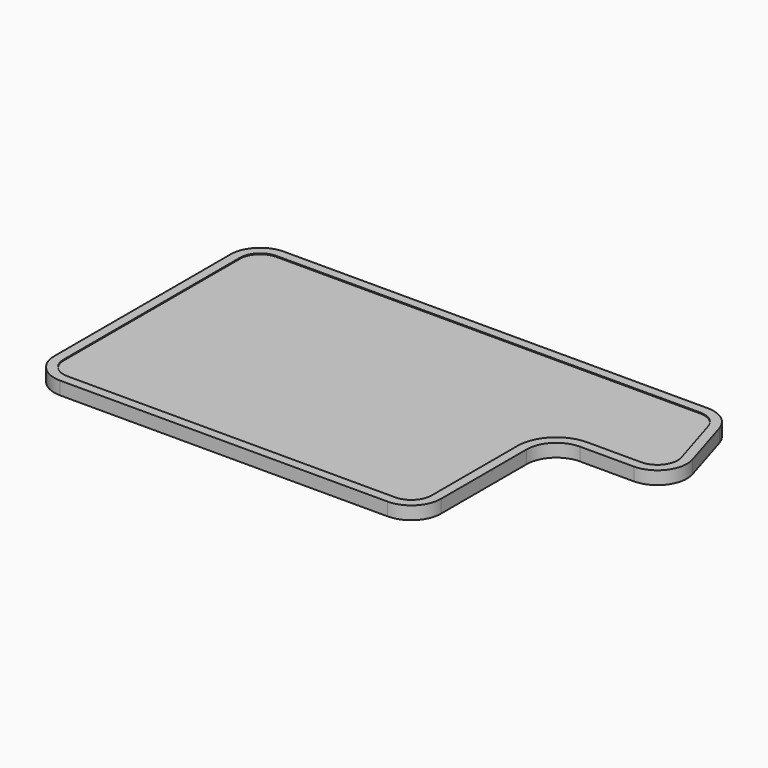
from build123d import *

# Parameters (mm, degrees)
F1_DEPTH = 2.8
F3_DEPTH = 0.2
F5_DEPTH = 0.2


with BuildPart() as f1:
    # F0 (on Top) → F1 (new body)
    with BuildSketch(Plane.XY):
        with BuildLine():
            ThreePointArc((-41.5, -23.65), (-39.640128, -28.140128), (-35.15, -30))
            Line((-35.15, -30), (35.15, -30))
            ThreePointArc((35.15, -30), (39.640128, -28.140128), (41.5, -23.65))
            Line((41.5, -23.65), (41.5, -0.635))
            ThreePointArc((41.5, -0.635), (43.359872, 3.855128), (47.85, 5.715))
            Line((47.85, 5.715), (59.405295, 5.715))
            ThreePointArc((59.405295, 5.715), (64.511092, 8.28964), (65.476545, 13.925759))
            Line((65.476545, 13.925759), (61.925894, 25.510759))
            ThreePointArc((61.925894, 25.510759), (59.630003, 28.755797), (55.854644, 30))
            Line((55.854644, 30), (41.5, 30))
            Line((41.5, 30), (-35.15, 30))
            ThreePointArc((-35.15, 30), (-39.640128, 28.140128), (-41.5, 23.65))
            Line((-41.5, 23.65), (-41.5, -23.65))
        make_face()
    extrude(amount=F1_DEPTH)

    # F2 (on face) → F3 (cut)
    with BuildSketch(Plane.XY.offset(2.8)):
        with BuildLine():
            ThreePointArc((39.5, -0.635), (41.945658, 5.269342), (47.85, 7.715))
            Line((47.85, 7.715), (59.405295, 7.715))
            ThreePointArc((59.405295, 7.715), (62.902967, 9.47873), (63.56434, 13.339693))
            Line((63.56434, 13.339693), (60.013689, 24.924693))
            ThreePointArc((60.013689, 24.924693), (58.440914, 27.147672), (55.854644, 28))
            Line((55.854644, 28), (-35.15, 28))
            ThreePointArc((-35.15, 28), (-38.225914, 26.725914), (-39.5, 23.65))
            Line((-39.5, 23.65), (-39.5, -23.65))
            ThreePointArc((-39.5, -23.65), (-38.225914, -26.725914), (-35.15, -28))
            Line((-35.15, -28), (35.15, -28))
            ThreePointArc((35.15, -28), (38.225914, -26.725914), (39.5, -23.65))
            Line((39.5, -23.65), (39.5, -0.635))
        make_face()
    extrude(amount=-F3_DEPTH, mode=Mode.SUBTRACT)

    # F4 (on face) → F5 (cut)
    with BuildSketch(Plane(origin=(0, 0, 0), x_dir=(1, 0, 0), z_dir=(0, 0, -1))):
        with BuildLine():
            ThreePointArc((-39.5, -23.65), (-38.225914, -26.725914), (-35.15, -28))
            Line((-35.15, -28), (55.854644, -28))
            ThreePointArc((55.854644, -28), (58.440914, -27.147672), (60.013689, -24.924693))
            Line((60.013689, -24.924693), (63.56434, -13.339693))
            ThreePointArc((63.56434, -13.339693), (62.902967, -9.47873), (59.405295, -7.715))
            Line((59.405295, -7.715), (47.85, -7.715))
            ThreePointArc((47.85, -7.715), (41.945658, -5.269342), (39.5, 0.635))
            Line((39.5, 0.635), (39.5, 23.65))
            ThreePointArc((39.5, 23.65), (38.225914, 26.725914), (35.15, 28))
            Line((35.15, 28), (-35.15, 28))
            ThreePointArc((-35.15, 28), (-38.225914, 26.725914), (-39.5, 23.65))
            Line((-39.5, 23.65), (-39.5, -23.65))
        make_face()
    extrude(amount=-F5_DEPTH, mode=Mode.SUBTRACT)


solid = f1.part
